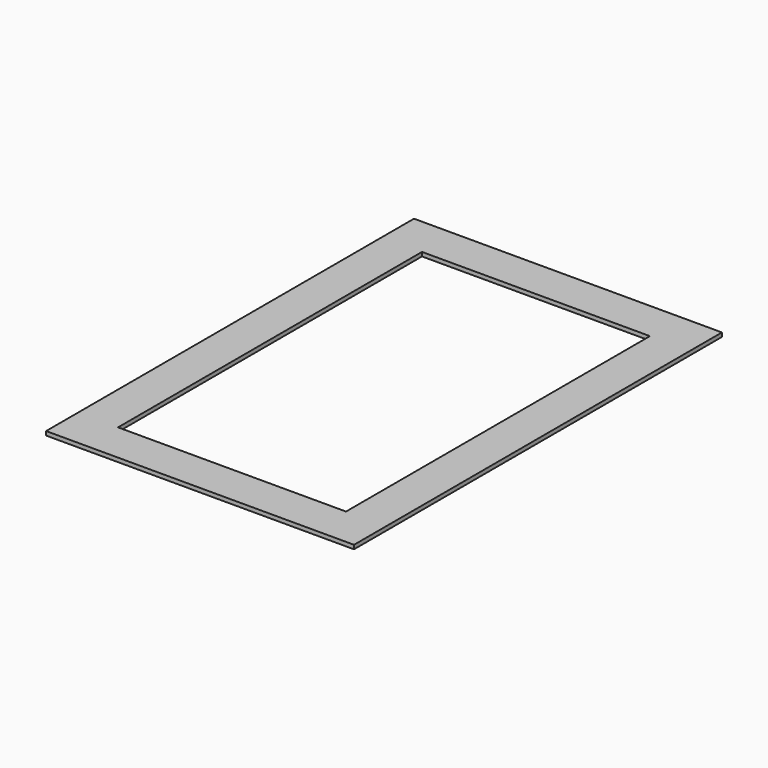
from build123d import *

# Parameters (mm, degrees)
SKETCH_W   = 77
SKETCH_H   = 115
SKETCH_W_2 = 57
SKETCH_H_2 = 95
PAD_DEPTH  = 1


with BuildPart() as part:
    # Sketch → Pad (new body)
    with BuildSketch(Plane.XY):
        Rectangle(SKETCH_W, SKETCH_H)
        Rectangle(SKETCH_W_2, SKETCH_H_2, mode=Mode.SUBTRACT)
    extrude(amount=PAD_DEPTH)


solid = part.part
